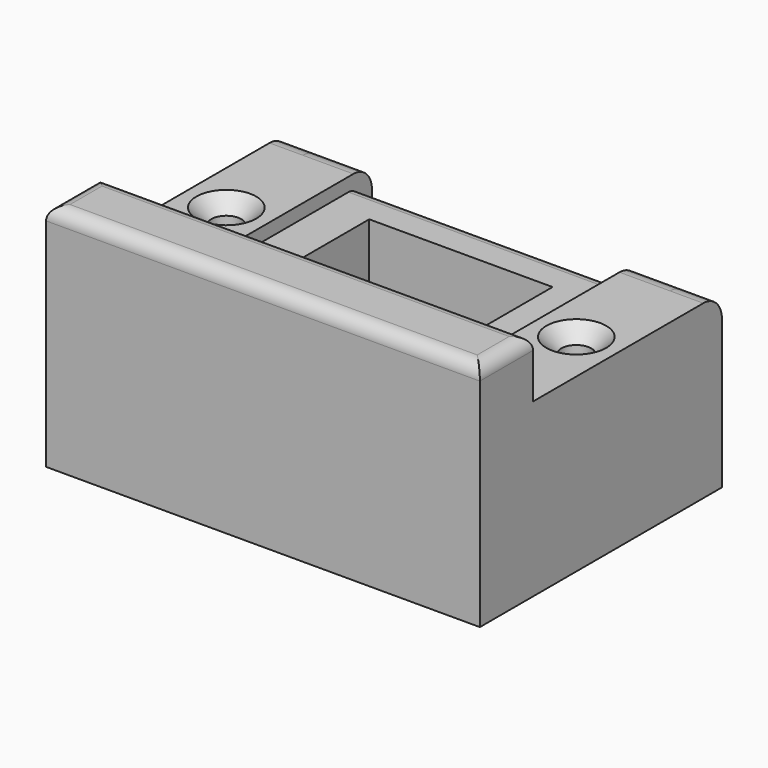
from build123d import *

# Parameters (mm, degrees)
F1_DEPTH        = 20
F2_R            = 2
F3_R            = 3
F4_R            = 2
F5_W            = 20
F5_H            = 4
F6_DEPTH        = 8.3
F7_R            = 1.6899494937
F9_DEPTH        = 27.6
F12_R           = 4.75
F13_DEPTH       = 10
F15_DEPTH       = 7.6
F17_DEPTH       = 7.6
F19_DEPTH       = 1.5000002459
F21_DEPTH       = 1.5000002459
F23_DEPTH       = 5
F25_DEPTH       = 5
F27_DEPTH       = 2.4358335286
F28_W           = 65.2
F28_H           = 2.6260968298
F29_DEPTH       = 25.7963873446
F31_D           = 4.5
F31_CSINK_D     = 9
F31_CSINK_ANGLE = 90
F33_DEPTH       = 25
F34_W           = 65.2
F34_H           = 34.5529383048
F35_DEPTH       = 10
F36_R           = 2


with BuildPart() as f1:
    # F0 (on Right) → F1 (new body, symmetric)
    with BuildSketch(Plane.YZ):
        Polygon((15.25, 10.5), (-15.25, 10.5), (-15.25, 9.100000374), (13.850000374, 9.100000374), (13.850000374, -10.5), (15.25, -10.5), align=None)
    extrude(amount=F1_DEPTH, both=True)

    # F2
    f2_edges = [f1.edges().sort_by_distance(p)[0] for p in [
        (0, 13.85, 9.1),
    ]]
    fillet(f2_edges, radius=F2_R)

    # F3
    f3_edges = [f1.edges().sort_by_distance(p)[0] for p in [
        (0, 15.25, 10.5),
    ]]
    fillet(f3_edges, radius=F3_R)

    # F4
    f4_edges = [f1.edges().sort_by_distance(p)[0] for p in [
        (20, 14.55, -10.5),
        (20, -15.25, 9.8),
        (-20, -15.25, 9.8),
    ]]
    fillet(f4_edges, radius=F4_R)

    # F5 (on face) → F6 (cut)
    with BuildSketch(Plane(origin=(0, 15.25, 0), x_dir=(-1, 0, 0), z_dir=(0, 1, 0))):
        with Locations((10, -8.5)):
            Rectangle(F5_W, F5_H)
    extrude(amount=-F6_DEPTH, mode=Mode.SUBTRACT)

    # F7
    f7_edges = [f1.edges().sort_by_distance(p)[0] for p in [
        (-20, 14.55, -6.5),
        (0, 14.55, -10.5),
        (0, 14.55, -6.5),
    ]]
    fillet(f7_edges, radius=F7_R)


with BuildPart() as f9:
    # F8 (on Right) → F9 (new body, symmetric)
    with BuildSketch(Plane.YZ):
        with BuildLine():
            Line((12.7858336568, 9.6320193261), (-14.7858336568, 9.6320193261))
            Line((-14.7858336568, 9.6320193261), (-16.5647212416, 9.6320193261))
            Line((-16.5647212416, 9.6320193261), (-16.5647212416, -14.6643677726))
            Line((-16.5647212416, -14.6643677726), (14.7858336568, -14.6643677726))
            Line((14.7858336568, -14.6643677726), (14.7858336568, -9.6320193261))
            Line((14.7858336568, -9.6320193261), (14.7858336568, 7.6320193261))
            ThreePointArc((14.7858336568, 7.6320193261), (14.2000472192, 9.0462328885), (12.7858336568, 9.6320193261))
        make_face()
    extrude(amount=F9_DEPTH, both=True)

    # F10: cut F1
    add(f1.part, mode=Mode.SUBTRACT)

    # F12 (on face) → F13 (cut)
    with BuildSketch(Plane(origin=(0, 13.850000374, 0), x_dir=(-1, 0, 0), z_dir=(0, 1, 0))):
        with Locations((-12.8287095577, -5.3859017789)):
            Circle(F12_R)
    extrude(amount=-F13_DEPTH, mode=Mode.SUBTRACT)

    # F14 (on face) → F15 (join, through all)
    with BuildSketch(Plane.YZ.offset(27.6)):
        with BuildLine():
            Line((16.2858339027, -14.6643677726), (16.2858339027, 7.6320193261))
            ThreePointArc((16.2858339027, 7.6320193261), (15.2607075648, 10.1068932341), (12.7858336568, 11.132019572))
            Line((12.7858336568, 11.132019572), (-16.5647212416, 11.132019572))
            Line((-16.5647212416, 11.132019572), (-16.5647212416, -14.6643677726))
            Line((-16.5647212416, -14.6643677726), (16.2858339027, -14.6643677726))
        make_face()
    extrude(amount=-F15_DEPTH)

    # F16 (on face) → F17 (join, through all)
    with BuildSketch(Plane(origin=(-27.6, 0, 0), x_dir=(0, -1, 0), z_dir=(-1, 0, 0))):
        with BuildLine():
            ThreePointArc((-12.7858336568, 11.132019572), (-15.2607075648, 10.1068932341), (-16.2858339027, 7.6320193261))
            Line((-16.2858339027, 7.6320193261), (-16.2858339027, -14.6643677726))
            Line((-16.2858339027, -14.6643677726), (16.5647212416, -14.6643677726))
            Line((16.5647212416, -14.6643677726), (16.5647212416, 11.132019572))
            Line((16.5647212416, 11.132019572), (-12.7858336568, 11.132019572))
        make_face()
    extrude(amount=-F17_DEPTH)

    # F18 (on face) → F19 (join, through all)
    with BuildSketch(Plane.XY.offset(9.6320193261)):
        with BuildLine():
            Line((-20, -16.5647212416), (20, -16.5647212416))
            Line((20, -16.5647212416), (20, -13.25))
            ThreePointArc((20, -13.25), (19.4142135624, -14.6642135624), (18, -15.25))
            Line((18, -15.25), (-18, -15.25))
            ThreePointArc((-18, -15.25), (-19.4142135624, -14.6642135624), (-20, -13.25))
            Line((-20, -13.25), (-20, -16.5647212416))
        make_face()
    extrude(amount=F19_DEPTH)

    # F20 (on face) → F21 (join, through all)
    with BuildSketch(Plane(origin=(0, 14.7858336568, 0), x_dir=(-1, 0, 0), z_dir=(0, 1, 0))):
        with BuildLine():
            Line((-20, -8.5), (-20, -14.6643677726))
            Line((-20, -14.6643677726), (20, -14.6643677726))
            Line((20, -14.6643677726), (20, -4.8100505063))
            ThreePointArc((20, -4.8100505063), (19.5050252532, -6.0050252532), (18.3100505063, -6.5))
            Line((18.3100505063, -6.5), (1.6899494937, -6.5))
            ThreePointArc((1.6899494937, -6.5), (0.4949747468, -6.9949747468), (0, -8.1899494937))
            Line((0, -8.1899494937), (0, -8.8100505063))
            ThreePointArc((0, -8.8100505063), (-0.4949747468, -10.0050252532), (-1.6899494937, -10.5))
            Line((-1.6899494937, -10.5), (-18, -10.5))
            ThreePointArc((-18, -10.5), (-19.4142135624, -9.9142135624), (-20, -8.5))
        make_face()
    extrude(amount=F21_DEPTH)

    # F22 (on face) → F23 (join)
    with BuildSketch(Plane(origin=(-27.6, 0, 0), x_dir=(0, -1, 0), z_dir=(-1, 0, 0))):
        with BuildLine():
            Line((-16.2858339027, -14.6643677726), (16.5647212416, -14.6643677726))
            Line((16.5647212416, -14.6643677726), (16.5647212416, 11.132019572))
            Line((16.5647212416, 11.132019572), (-12.7858339027, 11.132019572))
            ThreePointArc((-12.7858339027, 11.132019572), (-15.2607076368, 10.1068933061), (-16.2858339027, 7.632019572))
            Line((-16.2858339027, 7.632019572), (-16.2858339027, -14.6643677726))
        make_face()
    extrude(amount=F23_DEPTH)

    # F24 (on face) → F25 (join)
    with BuildSketch(Plane.YZ.offset(27.6)):
        with BuildLine():
            Line((-16.5647212416, 11.132019572), (-16.5647212416, -14.6643677726))
            Line((-16.5647212416, -14.6643677726), (16.2858339027, -14.6643677726))
            Line((16.2858339027, -14.6643677726), (16.2858339027, 7.632019572))
            ThreePointArc((16.2858339027, 7.632019572), (15.2607076368, 10.1068933061), (12.7858339027, 11.132019572))
            Line((12.7858339027, 11.132019572), (-16.5647212416, 11.132019572))
        make_face()
    extrude(amount=F25_DEPTH)

    # F26 (on face) → F27 (cut, through all)
    with BuildSketch(Plane(origin=(0, 16.2858339027, 0), x_dir=(-1, 0, 0), z_dir=(0, 1, 0))):
        with BuildLine():
            Line((1.7086403866, -9.5), (1.7086403866, -8.1106565775))
            Line((1.7086403866, -8.1106565775), (1.7086403866, -7.4905555649))
            ThreePointArc((1.7086403866, -7.4905555649), (1.9546138952, -6.8337115572), (2.5715284873, -6.5))
            Line((2.5715284873, -6.5), (-1.6899494937, -6.5))
            Line((-1.6899494937, -6.5), (-1.6899494937, -10.5))
            Line((-1.6899494937, -10.5), (0.7086403866, -10.5))
            ThreePointArc((0.7086403866, -10.5), (1.4157471677, -10.2071067812), (1.7086403866, -9.5))
        make_face()
        with BuildLine():
            ThreePointArc((2.8457522858, -6.5), (2.7086403866, -6.4905555649), (2.5715284873, -6.5))
            Line((2.5715284873, -6.5), (2.8457522858, -6.5))
        make_face()
    extrude(amount=-F27_DEPTH, mode=Mode.SUBTRACT)

    # F28 (on face) → F29 (join, through all)
    with BuildSketch(Plane.XY.offset(11.132019572)):
        with Locations((0, -17.8777696565)):
            Rectangle(F28_W, F28_H)
    extrude(amount=-F29_DEPTH)

    # F31 (through all)
    with Locations(Plane.XY.offset(11.132019572)):
        with Locations((26.3, -3.2024922073), (-26.3, -3.2024922073)):
            CounterSinkHole(F31_D / 2, F31_CSINK_D / 2, counter_sink_angle=F31_CSINK_ANGLE)

    # F32 (on face) → F33 (cut)
    with BuildSketch(Plane.XY.offset(9.100000374)):
        Polygon((-13.7790497392, -0.699999813), (-13.7790497392, -7.9947467893), (13.7790497392, -7.9947467893), (13.7790497392, 7.9947467893), (-13.7790497392, 7.9947467893), align=None)
    extrude(amount=-F33_DEPTH, mode=Mode.SUBTRACT)

    # F34 (on face) → F35 (join)
    with BuildSketch(Plane.XZ.offset(19.1908180714)):
        with Locations((0, 2.6121013798)):
            Rectangle(F34_W, F34_H)
    extrude(amount=F35_DEPTH)

    # F36
    f36_edges = [f9.edges().sort_by_distance(p)[0] for p in [
        (32.6, -24.190818, 19.888571),
        (-32.6, -24.190818, 19.888571),
        (0, -19.190818, 19.888571),
        (0, -29.190818, 19.888571),
    ]]
    fillet(f36_edges, radius=F36_R)


solid = f9.part
